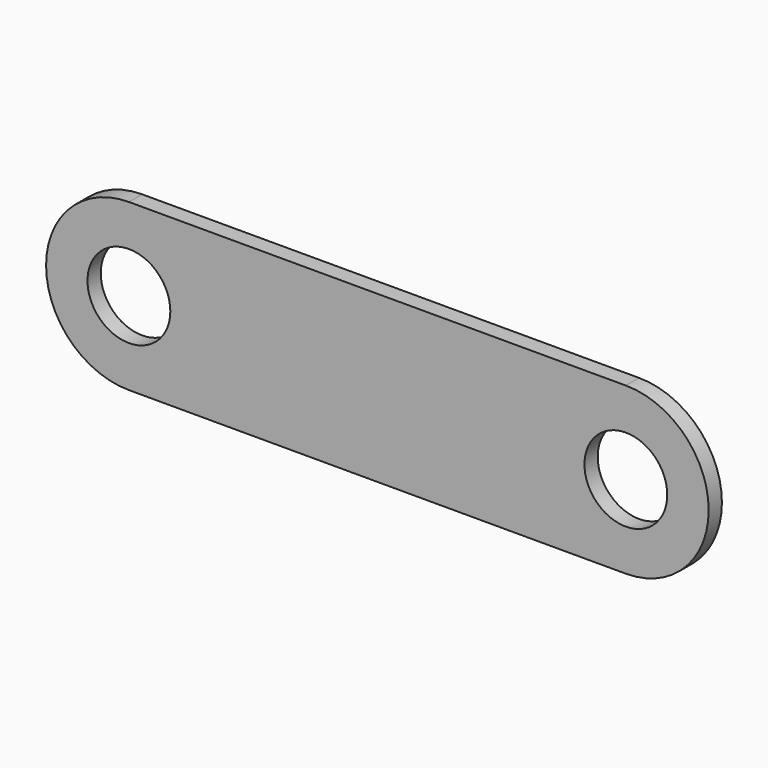
from build123d import *

# Parameters (mm, degrees)
F0_R     = 2.5
F1_DEPTH = 0.5


with BuildPart() as f1:
    # F0 (on Front) → F1 (new body, symmetric)
    with BuildSketch(Plane.XZ):
        with BuildLine():
            Line((0, -5), (30, -5))
            ThreePointArc((30, -5), (35, 0), (30, 5))
            Line((30, 5), (0, 5))
            ThreePointArc((0, 5), (-5, 0), (0, -5))
        make_face()
        Circle(F0_R, mode=Mode.SUBTRACT)
        with Locations((30, 0)):
            Circle(F0_R, mode=Mode.SUBTRACT)
    extrude(amount=F1_DEPTH, both=True)


solid = f1.part
